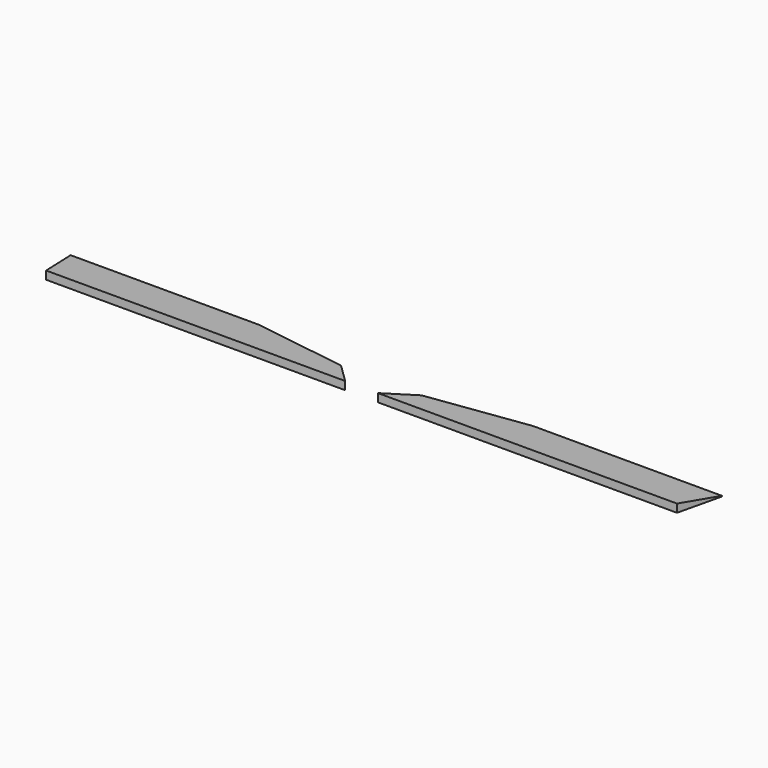
from build123d import *

# Parameters (mm, degrees)
F1_DEPTH = 381
F3_DEPTH = 12.7
F5_DEPTH = 12.7


with BuildPart() as f1:
    # F0 (on Right) → F1 (new body)
    with BuildSketch(Plane.YZ):
        Polygon((0, 9.525), (0, 0), (50.8, 0), (50.8, 0.778103), align=None)
    extrude(amount=F1_DEPTH)

    # F2 (on Top) → F3 (cut, symmetric)
    with BuildSketch(Plane.XY):
        Polygon((369.062, 0), (381, 0), (381, 50.756246), align=None)
    extrude(amount=F3_DEPTH, both=True, mode=Mode.SUBTRACT)

    # F4 (on Top) → F5 (cut, symmetric)
    with BuildSketch(Plane.XY):
        Polygon((0, 0), (19.1516, 0), (47.02963, 28.868545), (159.857185, 50.8), (0, 50.8), align=None)
    extrude(amount=F5_DEPTH, both=True, mode=Mode.SUBTRACT)


with BuildPart() as f6_1:
    # F6: instance of F1
    add(f1.part.mirror(Plane.YZ))


solid = Compound([f1.part, f6_1.part])
